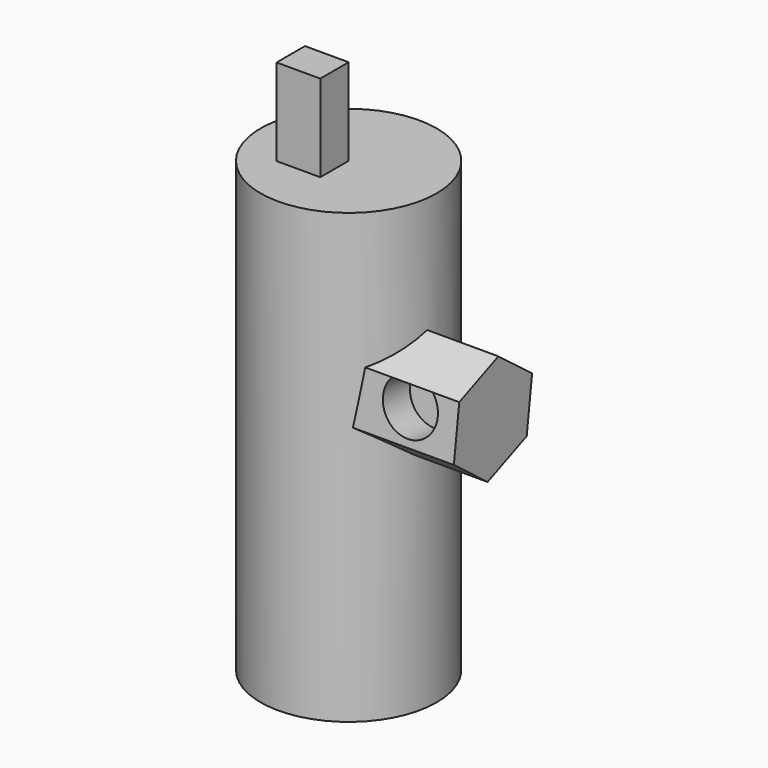
from build123d import *

# Parameters (mm, degrees)
F0_R     = 39.9204473095
F1_DEPTH = 203.2
F2_W     = 19.8161117733
F2_H     = 16.0770136863
F3_DEPTH = 39.37
F5_DEPTH = 71.882
F7_DEPTH = 15.494


with BuildPart() as f1:
    # F0 (on Top) → F1 (new body)
    with BuildSketch(Plane.XY):
        Circle(F0_R)
    extrude(amount=F1_DEPTH)

    # F2 (on face) → F3 (join)
    with BuildSketch(Plane.XY.offset(203.2)):
        with Locations((-9.9080558866, -8.0385068431)):
            Rectangle(F2_W, F2_H)
    extrude(amount=F3_DEPTH)

    # F4 (on face) → F5 (join)
    with BuildSketch(Plane.YZ):
        Polygon((-11.0862118476, 102.8951700695), (11.0862118476, 112.177238249), (14.1339168521, 136.0201545224), (-4.9908018387, 150.5810026161), (-27.1632255339, 141.2989344366), (-30.2109305384, 117.4560181633), align=None)
    extrude(amount=F5_DEPTH)

    # F6 (on face) → F7 (cut)
    with BuildSketch(Plane(origin=(0, -44.4976190456, 5.6878787267), x_dir=(1, 0, 0), z_dir=(0, -0.9919292372, 0.1267926987))):
        with BuildLine():
            ThreePointArc((41.2940425882, 136.7144455761), (46.1384221296, 116.821871488), (62.9989352422, 128.4367591143))
            ThreePointArc((62.9989352422, 128.4367591143), (62.182928441, 132.8663777994), (59.8420390413, 136.7144455761))
            Line((59.8420390413, 136.7144455761), (41.2940425882, 136.7144455761))
        make_face()
    extrude(amount=-F7_DEPTH, mode=Mode.SUBTRACT)


solid = f1.part
